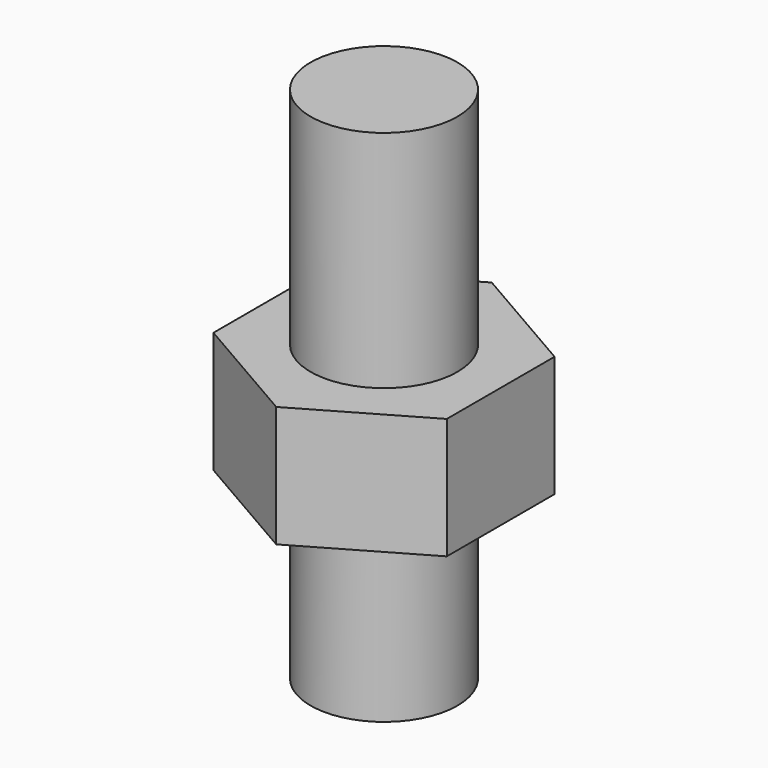
from build123d import *

# Parameters (mm, degrees)
PAD_DEPTH         = 7
SKETCH001_R       = 4.25
PAD001_DEPTH      = 20
PAD001_DEPTH_BACK = 10


with BuildPart() as part:
    # Sketch → Pad (new body)
    with BuildSketch(Plane.XY):
        Polygon((0, -7.794229), (6.75, -3.897114), (6.75, 3.897114), (0, 7.794229), (-6.75, 3.897114), (-6.75, -3.897114), align=None)
    extrude(amount=PAD_DEPTH)

    # Sketch001 → Pad001 (join, two sides)
    with BuildSketch(Plane.XY) as pad001_sk:
        Circle(SKETCH001_R)
    extrude(amount=PAD001_DEPTH)
    extrude(pad001_sk.sketch, amount=-PAD001_DEPTH_BACK)


solid = part.part
